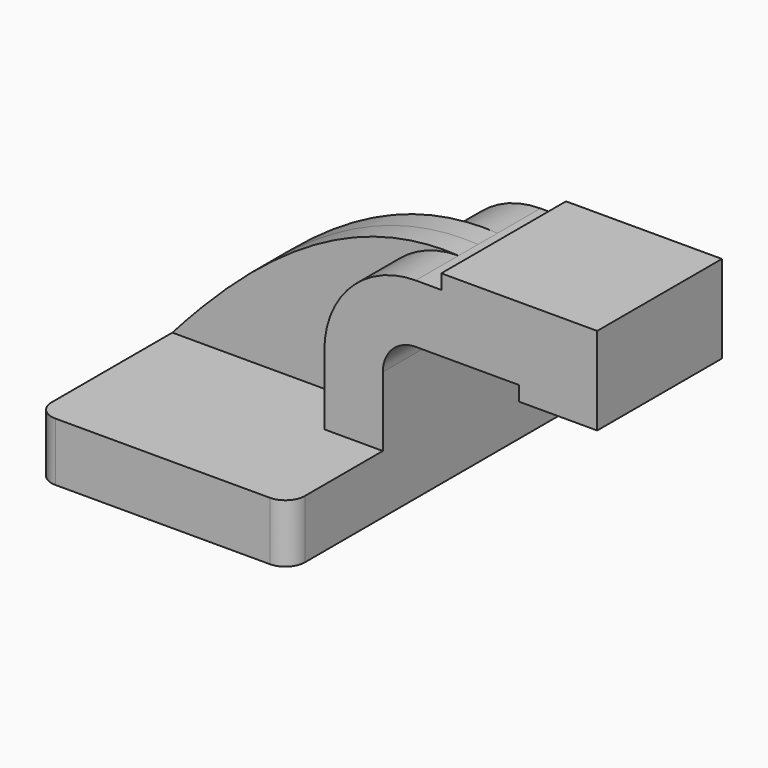
from build123d import *

# Parameters (mm, degrees)
F1_DEPTH = 63.5
F2_DEPTH = 25.4
F3_DEPTH = 7.9375
F4_DEPTH = 25.4
F5_R     = 6.35


with BuildPart() as f1:
    # F0 (on Front) → F1 (new body, symmetric)
    with BuildSketch(Plane.XZ):
        Polygon((22.225, 9.525), (-41.275, 9.525), (-41.275, -9.525), (41.275, -9.525), (41.275, 9.525), align=None)
    extrude(amount=F1_DEPTH, both=True)

    # F0 (on Front) → F2 (join, symmetric)
    with BuildSketch(Plane.XZ):
        with BuildLine():
            Line((22.225, 32.177767), (22.225, 9.525))
            Line((22.225, 9.525), (41.275, 9.525))
            Line((41.275, 9.525), (41.275, 32.177767))
            ThreePointArc((41.275, 32.177767), (44.408206, 39.741994), (51.972433, 42.8752))
            Line((51.972433, 42.8752), (60.325, 42.8752))
            Line((60.325, 42.8752), (60.325, 61.9252))
            Line((60.325, 61.9252), (51.972433, 61.9252))
            ThreePointArc((51.972433, 61.9252), (30.937821, 53.212379), (22.225, 32.177767))
        make_face()
        Polygon((60.325, 66.675), (60.325, 61.9252), (60.325, 42.8752), (85.725, 42.8752), (85.725, 66.675), align=None)
    extrude(amount=F2_DEPTH, both=True)

    # F0 (on Front) → F3 (join, symmetric)
    with BuildSketch(Plane.XZ):
        with BuildLine():
            add(Edge.make_bspline(
                [(-41.275, 9.525), (-17.174726, 36.691695), (14.035416, 64.275697), (51.972433, 61.9252)],
                knots=[0, 0, 0, 0, 106.961978, 106.961978, 106.961978, 106.961978], degree=3))
            Line((-41.275, 9.525), (22.225, 9.525))
            Line((22.225, 9.525), (22.225, 32.177767))
            ThreePointArc((22.225, 32.177767), (30.937821, 53.212379), (51.972433, 61.9252))
        make_face()
    extrude(amount=F3_DEPTH, both=True)

    # F0 (on Front) → F4 (join, symmetric)
    with BuildSketch(Plane.XZ):
        Polygon((111.125, 66.675), (85.725, 66.675), (85.725, 42.8752), (85.725, 38.1), (111.125, 38.1), align=None)
    extrude(amount=F4_DEPTH, both=True)

    # F5
    f5_edges = [f1.edges().sort_by_distance(p)[0] for p in [
        (-41.275, -63.5, 0),
        (41.275, -63.5, 0),
        (-41.275, 63.5, 0),
        (41.275, 63.5, 0),
    ]]
    fillet(f5_edges, radius=F5_R)


solid = f1.part
